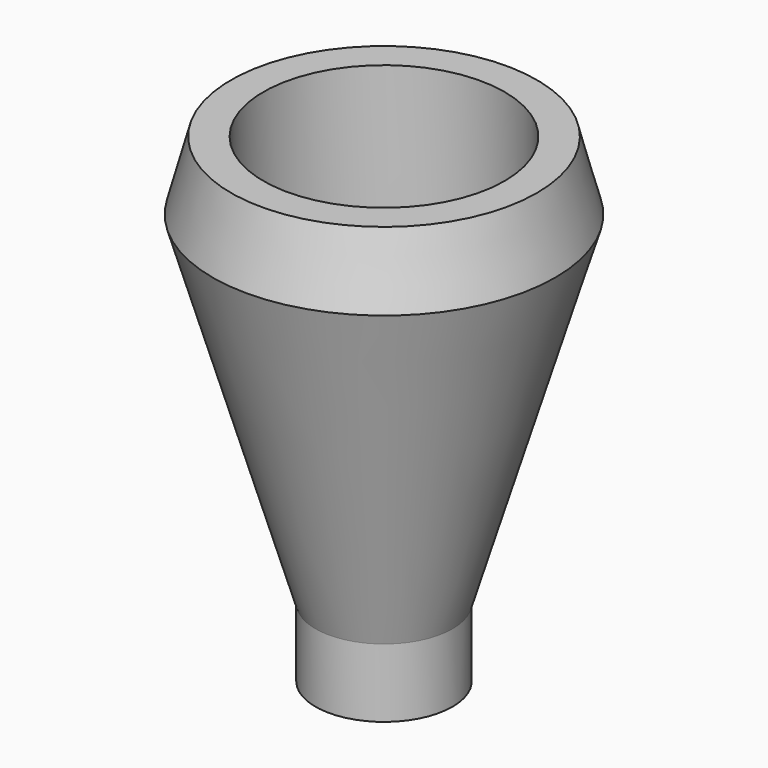
from build123d import *

# Parameters (mm, degrees)
F2_R     = 4.826
F3_DEPTH = 38.1
F2_R_2   = 11.176
F4_DEPTH = 12.7


with BuildPart() as f1:
    # F0 (on Front) → F1 (revolve)
    with BuildSketch(Plane.XZ):
        Polygon((14.516552, 44.45), (14.516552, 0), (20.866552, 0), (20.866552, 6.35), (30.391552, 38.1), (28.690075, 44.45), align=None)
    revolve(axis=Axis((14.516552, 0, 22.225), (0, 0, -1)))

    # F2 (on face) → F3 (cut)
    with BuildSketch(Plane.XY.offset(44.45)):
        with Locations((14.516552, 0)):
            Circle(F2_R)
    extrude(amount=-F3_DEPTH, mode=Mode.SUBTRACT)

    # F2 (on face) → F4 (cut)
    with BuildSketch(Plane.XY.offset(44.45)):
        with Locations((14.516552, 0)):
            Circle(F2_R_2)
        with Locations((14.516552, 0)):
            Circle(F2_R, mode=Mode.SUBTRACT)
    extrude(amount=-F4_DEPTH, mode=Mode.SUBTRACT)


solid = f1.part
